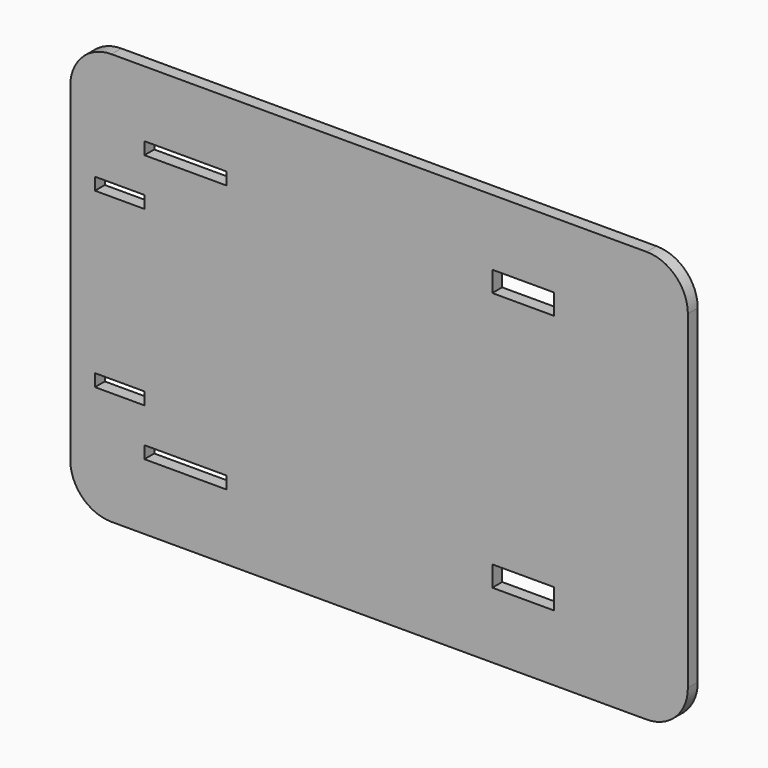
from build123d import *

# Parameters (mm, degrees)
F0_W     = 20
F0_H     = 3
F0_W_2   = 12
F0_W_3   = 15
F0_H_2   = 5
F1_DEPTH = 3


with BuildPart() as f1:
    # F0 (on Front) → F1 (new body)
    with BuildSketch(Plane.XZ):
        with BuildLine():
            ThreePointArc((76.362, 36.409888), (73.433068, 43.480956), (66.362, 46.409888))
            Line((66.362, 46.409888), (-63.638, 46.409888))
            ThreePointArc((-63.638, 46.409888), (-70.709067, 43.480956), (-73.638, 36.409888))
            Line((-73.638, 36.409888), (-73.638, -43.590112))
            ThreePointArc((-73.638, -43.590112), (-70.709067, -50.66118), (-63.638, -53.590112))
            Line((-63.638, -53.590112), (66.362, -53.590112))
            ThreePointArc((66.362, -53.590112), (73.433068, -50.66118), (76.362, -43.590112))
            Line((76.362, -43.590112), (76.362, 36.409888))
        make_face()
        with Locations((-45.638, -36.090112)):
            Rectangle(F0_W, F0_H, mode=Mode.SUBTRACT)
        with Locations((-61.638, -24.590112)):
            Rectangle(F0_W_2, F0_H, mode=Mode.SUBTRACT)
        with Locations((36.362, -35.090112)):
            Rectangle(F0_W_3, F0_H_2, mode=Mode.SUBTRACT)
        with Locations((-61.638, 17.409888)):
            Rectangle(F0_W_2, F0_H, mode=Mode.SUBTRACT)
        with Locations((-45.638, 28.909888)):
            Rectangle(F0_W, F0_H, mode=Mode.SUBTRACT)
        with Locations((36.362, 27.909888)):
            Rectangle(F0_W_3, F0_H_2, mode=Mode.SUBTRACT)
    extrude(amount=F1_DEPTH)


solid = f1.part
